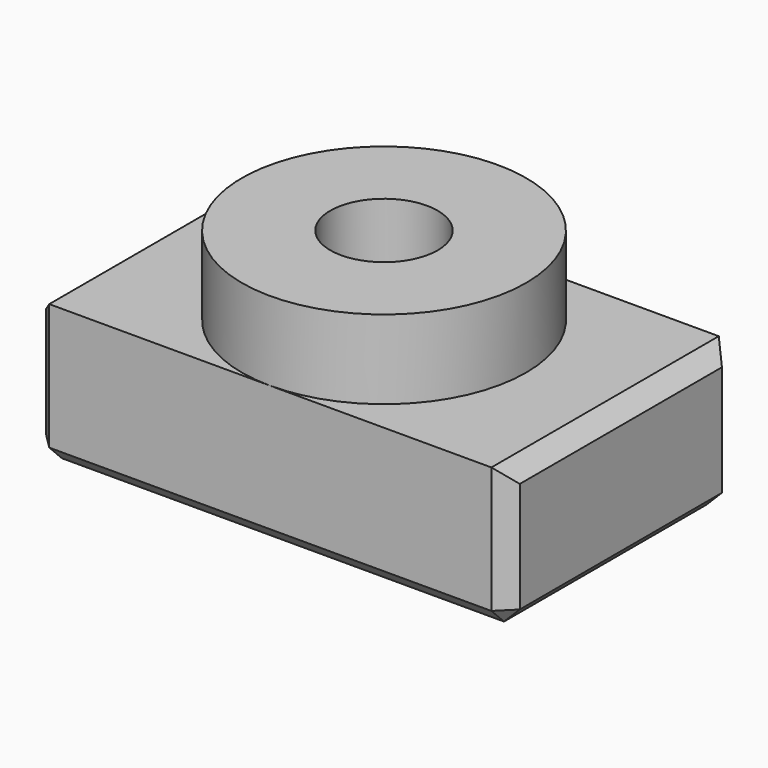
from build123d import *

# Parameters (mm, degrees)
F0_W     = 15
F0_H     = 9
F1_DEPTH = 4.5
F2_R     = 4.5
F3_DEPTH = 2.5
F4_R     = 1.7
F5_DEPTH = 7.001
F6_SIZE  = 0.5


with BuildPart() as f1:
    # F0 (on Top) → F1 (new body)
    with BuildSketch(Plane.XY):
        Rectangle(F0_W, F0_H)
    extrude(amount=F1_DEPTH)

    # F2 (on face) → F3 (join)
    with BuildSketch(Plane.XY.offset(4.5)):
        Circle(F2_R)
    extrude(amount=F3_DEPTH)

    # F4 (on face) → F5 (cut, through all)
    with BuildSketch(Plane.XY.offset(7)):
        Circle(F4_R)
    extrude(amount=-F5_DEPTH, mode=Mode.SUBTRACT)

    # F6
    f6_edges = [f1.edges().sort_by_distance(p)[0] for p in [
        (-7.5, 0, 4.5),
        (7.5, 0, 4.5),
        (-7.5, -4.5, 2.25),
        (-7.5, 4.5, 2.25),
        (7.5, -4.5, 2.25),
        (7.5, 4.5, 2.25),
        (0, 4.5, 0),
        (7.5, 0, 0),
        (0, -4.5, 0),
        (-7.5, 0, 0),
    ]]
    chamfer(f6_edges, length=F6_SIZE)


solid = f1.part
